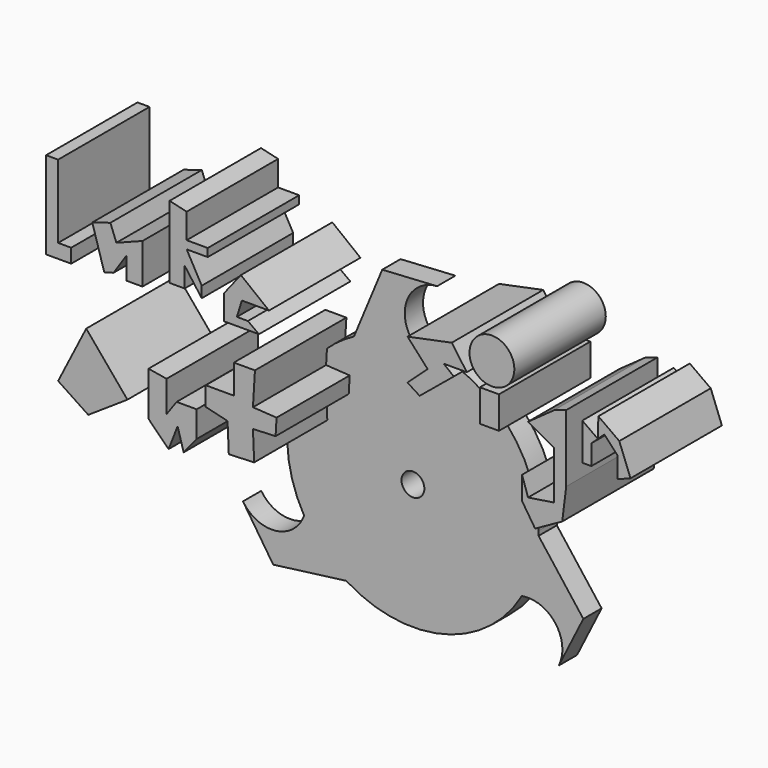
from build123d import *

# Parameters (mm, degrees)
F0_R     = 2.5
F1_DEPTH = 5
F2_W     = 4.173642
F2_H     = 7.029285
F3_DEPTH = 25
F2_R     = 4.905722
F4_DEPTH = 25


with BuildPart() as f1:
    # F0 (on Front) → F1 (new body)
    with BuildSketch(Plane.XZ):
        with BuildLine():
            ThreePointArc((27.482668, -0.976192), (27.495667, -0.488173), (27.5, 0))
            ThreePointArc((27.5, 0), (19.445436, 19.445436), (0, 27.5))
            ThreePointArc((0, 27.5), (-6.644863, 26.685123), (-12.895927, 24.288785))
            ThreePointArc((-12.895927, 24.288785), (-26.432426, 7.587941), (-23.815699, -13.75))
            ThreePointArc((-23.815699, -13.75), (-19.787563, -19.097182), (-14.586741, -23.312593))
            ThreePointArc((-14.586741, -23.312593), (6.644863, -26.685123), (23.815699, -13.75))
            ThreePointArc((23.815699, -13.75), (26.432426, -7.587941), (27.482668, -0.976192))
        make_face()
        Circle(F0_R, mode=Mode.SUBTRACT)
        with BuildLine():
            ThreePointArc((-12.895927, 24.288785), (-6.644863, 26.685123), (0, 27.5))
            ThreePointArc((0, 27.5), (-1.18668, 35.327109), (5.287066, 39.883691))
            Line((5.287066, 39.883691), (-6.708867, 39.171108))
            Line((-6.708867, 39.171108), (-12.895927, 24.288785))
        make_face()
        with BuildLine():
            ThreePointArc((-14.586741, -23.312593), (-19.787563, -19.097182), (-23.815699, -13.75))
            ThreePointArc((-23.815699, -13.75), (-30.000833, -18.69125), (-37.183823, -15.363112))
            Line((-37.183823, -15.363112), (-30.568741, -25.395603))
            Line((-30.568741, -25.395603), (-14.586741, -23.312593))
        make_face()
        with BuildLine():
            Line((37.277608, -13.775505), (27.482668, -0.976192))
            ThreePointArc((27.482668, -0.976192), (26.432426, -7.587941), (23.815699, -13.75))
            ThreePointArc((23.815699, -13.75), (31.187514, -16.635859), (31.896757, -24.520579))
            Line((31.896757, -24.520579), (37.277608, -13.775505))
        make_face()
    extrude(amount=F1_DEPTH)

    # F2 (on Front) → F3 (join)
    with BuildSketch(Plane.XZ):
        Polygon((-61.616112, 50.632849), (-64.252093, 50.632849), (-64.252093, 31.521965), (-58.760464, 31.521965), (-58.760464, 34.597281), (-61.616112, 34.597281), align=None)
        Polygon((-50.188987, 42.185926), (-54.147493, 40.967572), (-51.511507, 32.180965), (-49.496232, 32.785548), (-46.678871, 37.013602), (-46.678871, 32.180965), (-43.164227, 32.180965), (-43.164227, 40.967572), (-48.875526, 38.770922), align=None)
        Polygon((-33.498954, 49.754187), (-37.233267, 50.632849), (-37.233267, 34.816947), (-33.938285, 34.816947), (-33.938285, 39.210252), (-30.203976, 34.15795), (-30.203976, 36.574271), (-33.498954, 42.505234), (-28.885985, 42.505234), (-28.885985, 44.262554), (-33.498954, 44.262554), align=None)
        Polygon((-22.515692, 33.059627), (-21.417364, 36.574271), (-15.486402, 36.574271), (-21.637032, 41.406907), (-25.295811, 36.750279), (-25.295811, 31.302303), (-20.099374, 31.302303), (-17.683055, 31.302303), (-20.099374, 33.059627), align=None)
        Polygon((27.787657, 38.770922), (24.492679, 43.383893), (14.827408, 41.406907), (19.22071, 36.574271), (14.803547, 32.558671), (17.463388, 30.862972), (24.932012, 37.013602), (22.735359, 38.770922), align=None)
        with Locations((32.73013, 33.279289)):
            Rectangle(F2_W, F2_H)
        Polygon((49.534522, 38.551256), (46.89854, 37.672594), (41.163491, 33.576132), (46.89854, 30.423641), (46.89854, 19.879708), (41.187238, 19.001046), (39.869245, 22.955023), (39.869245, 17.902721), (42.7249, 13.509414), (48.655856, 16.804395), (49.534522, 23.833685), align=None)
        Polygon((56.453979, 35.256278), (53.049166, 37.672594), (53.049166, 29.544981), (55.026155, 29.544981), (55.026155, 33.938285), align=None)
        Polygon((56.56381, 39.649583), (56.453979, 35.256278), (57.881802, 36.574271), (60.72833, 33.490536), (60.73745, 28.885985), (63.593097, 29.98431), (61.141679, 36.357998), align=None)
        Polygon((-29.325316, 17.683055), (-29.325316, 13.509414), (-24.553575, 12.361361), (-24.282142, 6.033914), (-18.728277, 6.272162), (-19.001046, 12.630753), (-14.049031, 12.843184), (-13.82796, 16.490876), (-19.001046, 16.804395), (-18.561717, 24.053348), (-23.174686, 24.053348), (-23.174686, 17.683055), align=None)
        Polygon((-37.89226, 16.145399), (-41.846234, 16.804395), (-41.846234, 7.139121), (-37.452929, 2.745816), (-35.475943, 7.798117), (-34.15795, 3.185146), (-31.302303, 6.699791), (-31.302303, 12.411089), (-35.695609, 12.411089), (-37.89226, 9.335774), align=None)
        Polygon((-46.459205, 9.335774), (-55.465482, 20.099374), (-61.616112, 8.017782), (-55.026151, 3.624477), align=None)
    extrude(amount=F3_DEPTH)


with BuildPart() as f4:
    # F2 (on Front) → F4 (new body)
    with BuildSketch(Plane.XZ):
        with Locations((33.279289, 42.724896)):
            Circle(F2_R)
    extrude(amount=F4_DEPTH)


solid = Compound([f1.part, f4.part])
